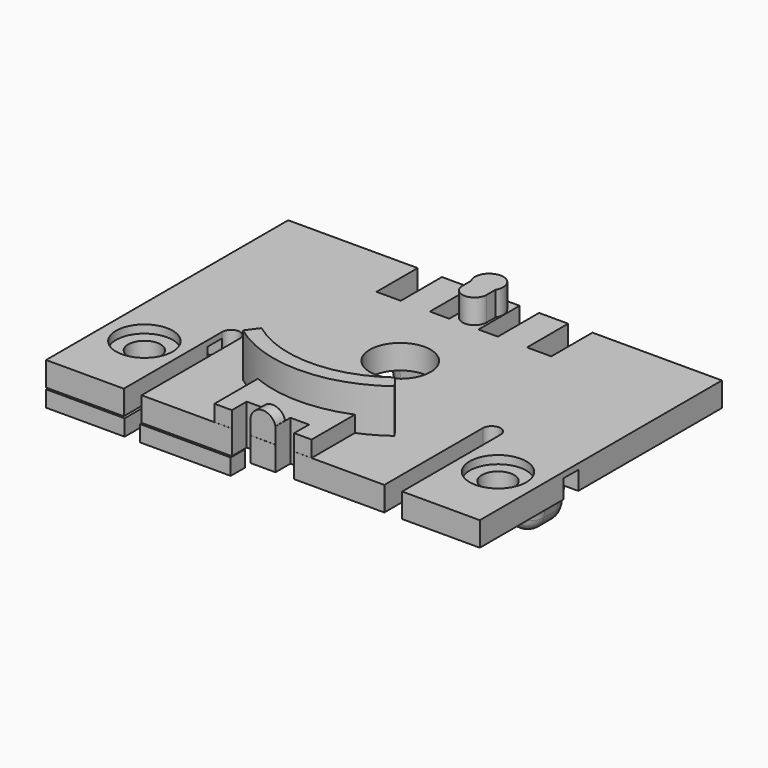
from build123d import *

# Parameters (mm, degrees)
SKETCH_W             = 53.6
SKETCH_H             = 37.4
PAD_DEPTH            = 3
SKETCH001_R          = 3.75
POCKET_DEPTH         = 3.001
SKETCH002_R          = 1.75
POCKET001_DEPTH      = 3.001
POCKET002_DEPTH      = 3.001
SKETCH009_R          = 2
POCKET004_DEPTH      = 3.001
SKETCH010_R          = 3.5
POCKET005_DEPTH      = 1
PAD003_DEPTH         = 5.4
PAD006_DEPTH         = 6
SKETCH016_R          = 1.75
PAD007_DEPTH         = 6
SKETCH018_W          = 3
SKETCH018_H          = 6.4
SKETCH018_W_2        = 2.4
POCKET008_DEPTH      = 8.401
SKETCH023_W          = 2.3
SKETCH023_H          = 2.3
POCKET009_DEPTH      = 10
SKETCH024_W          = 2.3
SKETCH024_H          = 2.3
POCKET010_DEPTH      = 10
SKETCH013_W          = 12
SKETCH013_H          = 7
PAD010_DEPTH         = 2
SKETCH014_R          = 1.57
PAD011_DEPTH         = 1.5
SKETCH007_W          = 2.3
SKETCH007_H          = 2.3
POCKET011_DEPTH      = 8.401
FILLET_R             = 2
SKETCH025_W          = 21
SKETCH025_H          = 6
PAD012_DEPTH         = 3
SKETCH026_W          = 4
SKETCH026_H          = 3
POCKET012_DEPTH      = 3.001
POCKET012_DEPTH_BACK = -3.001
PAD008_DEPTH         = 2
PAD009_DEPTH         = 2


with BuildPart() as body:
    # Sketch → Pad (new body)
    with BuildSketch(Plane.XY):
        with Locations((0, -2.51)):
            Rectangle(SKETCH_W, SKETCH_H)
    extrude(amount=PAD_DEPTH)

    # Sketch001 → Pocket (cut, through all)
    with BuildSketch(Plane.XY):
        Circle(SKETCH001_R)
    extrude(amount=POCKET_DEPTH, mode=Mode.SUBTRACT)

    # Sketch002 → Pocket001 (cut, through all)
    with BuildSketch(Plane.XY):
        with Locations((0, -7.31)):
            Circle(SKETCH002_R)
    extrude(amount=POCKET001_DEPTH, mode=Mode.SUBTRACT)

    # Sketch004 → Pocket002 (cut, through all)
    with BuildSketch(Plane.XY):
        with BuildLine():
            ThreePointArc((-15, -6), (-16.1, -4.9), (-17.2, -6))
            Line((-17.2, -6), (-17.2, -21))
            ThreePointArc((-17.2, -21), (-16.1, -22.1), (-15, -21))
            Line((-15, -21), (-15, -6))
        make_face()
        with BuildLine():
            ThreePointArc((17.2, -6), (16.1, -4.9), (15, -6))
            Line((15, -6), (15, -21))
            ThreePointArc((15, -21), (16.1, -22.1), (17.2, -21))
            Line((17.2, -21), (17.2, -6))
        make_face()
    extrude(amount=POCKET002_DEPTH, mode=Mode.SUBTRACT)

    # Sketch009 → Pocket004 (cut, through all)
    with BuildSketch(Plane.XY):
        with Locations((21.85, -12.21)):
            Circle(SKETCH009_R)
        with Locations((-21.85, -12.21)):
            Circle(SKETCH009_R)
    extrude(amount=POCKET004_DEPTH, mode=Mode.SUBTRACT)

    # Sketch010 (on Face5 of Pocket004) → Pocket005 (cut)
    with BuildSketch(Plane.XY.offset(3)):
        with Locations((-21.85, -12.21)):
            Circle(SKETCH010_R)
        with Locations((21.85, -12.21)):
            Circle(SKETCH010_R)
    extrude(amount=-POCKET005_DEPTH, mode=Mode.SUBTRACT)

    # Sketch012 (on Face5 of Pocket005) → Pad003 (join)
    with BuildSketch(Plane.XY.offset(3)):
        with BuildLine():
            ThreePointArc((-8.25, -11.124747), (0.012458, -13.849994), (8.27, -11.109887))
            Line((9.374657, -12.59388), (8.27, -11.109887))
            ThreePointArc((-9.351986, -12.610724), (0.014122, -15.699994), (9.374657, -12.59388))
            Line((-9.351986, -12.610724), (-8.25, -11.124747))
        make_face()
    extrude(amount=PAD003_DEPTH)

    # Sketch015 → Pad006 (join)
    with BuildSketch(Plane.XY):
        with BuildLine():
            ThreePointArc((1.5, 13.73), (0, 15.23), (-1.5, 13.73))
            Line((-1.5, 13.73), (-1.5, 11.48))
            ThreePointArc((-1.5, 11.48), (0, 9.98), (1.5, 11.48))
            Line((1.5, 11.48), (1.5, 13.73))
        make_face()
    extrude(amount=PAD006_DEPTH)

    # Sketch016 → Pad007 (join)
    with BuildSketch(Plane.XY):
        with Locations((0, 13.73)):
            Circle(SKETCH016_R)
    extrude(amount=PAD007_DEPTH)

    # Sketch018 → Pocket008 (cut, through all)
    with BuildSketch(Plane.XY):
        with Locations((-9.3, 13.03)):
            Rectangle(SKETCH018_W, SKETCH018_H)
        with Locations((-3, 13.03)):
            Rectangle(SKETCH018_W_2, SKETCH018_H)
        with Locations((9.3, 13.03)):
            Rectangle(SKETCH018_W, SKETCH018_H)
        with Locations((3, 13.03)):
            Rectangle(SKETCH018_W_2, SKETCH018_H)
    extrude(amount=POCKET008_DEPTH, mode=Mode.SUBTRACT)

    # Sketch023 → Pocket009 (cut)
    with BuildSketch(Plane.YZ.offset(-26.8)):
        with Locations((-7.15, 1.15)):
            Rectangle(SKETCH023_W, SKETCH023_H)
    extrude(amount=POCKET009_DEPTH, mode=Mode.SUBTRACT)

    # Sketch024 → Pocket010 (cut)
    with BuildSketch(Plane.YZ.offset(26.8)):
        with Locations((-7.15, 1.15)):
            Rectangle(SKETCH024_W, SKETCH024_H)
    extrude(amount=-POCKET010_DEPTH, mode=Mode.SUBTRACT)

    # Sketch013 → Pad010 (join)
    with BuildSketch(Plane.XY.offset(3)):
        with Locations((0, -17.7)):
            Rectangle(SKETCH013_W, SKETCH013_H)
    extrude(amount=PAD010_DEPTH)

    # Sketch014 → Pad011 (join)
    with BuildSketch(Plane.XZ.offset(21.2)):
        with Locations((0, 4.66)):
            Circle(SKETCH014_R)
    extrude(amount=-PAD011_DEPTH)

    # Sketch007 → Pocket011 (cut, through all)
    with BuildSketch(Plane.XY):
        with Locations((-2.7, -20.06)):
            Rectangle(SKETCH007_W, SKETCH007_H)
        with Locations((2.7, -20.06)):
            Rectangle(SKETCH007_W, SKETCH007_H)
    extrude(amount=POCKET011_DEPTH, mode=Mode.SUBTRACT)


with BuildPart() as presser:
    # Sketch020 → AdditiveLoft section 0
    with BuildSketch(Plane.XY.offset(-18)):
        with BuildLine():
            Line((-5.75, 3), (5.75, 3))
            ThreePointArc((7.75, 1), (7.164214, 2.414214), (5.75, 3))
            Line((7.75, 1), (7.75, -1))
            ThreePointArc((5.75, -3), (7.164214, -2.414214), (7.75, -1))
            Line((5.75, -3), (-5.75, -3))
            ThreePointArc((-7.75, -1), (-7.164214, -2.414214), (-5.75, -3))
            Line((-7.75, -1), (-7.75, 1))
            ThreePointArc((-5.75, 3), (-7.164214, 2.414214), (-7.75, 1))
        make_face()
    # Sketch019 → AdditiveLoft section 1
    with BuildSketch(Plane.XY.offset(-3)):
        with BuildLine():
            Line((-8.5, 3), (8.5, 3))
            ThreePointArc((10.5, 1), (9.914214, 2.414214), (8.5, 3))
            Line((10.5, 1), (10.5, -1))
            ThreePointArc((8.5, -3), (9.914214, -2.414214), (10.5, -1))
            Line((8.5, -3), (-8.5, -3))
            ThreePointArc((-10.5, -1), (-9.914214, -2.414214), (-8.5, -3))
            Line((-10.5, -1), (-10.5, 1))
            ThreePointArc((-8.5, 3), (-9.914214, 2.414214), (-10.5, 1))
        make_face()
    loft()

    # Fillet
    fillet_edges = [presser.edges().sort_by_distance(p)[0] for p in [
        (0, 3, -18),
        (-7.164214, 2.414214, -18),
        (-7.75, 0, -18),
        (-7.164214, -2.414214, -18),
        (0, -3, -18),
        (7.164214, -2.414214, -18),
        (7.75, 0, -18),
        (7.164214, 2.414214, -18),
    ]]
    fillet(fillet_edges, radius=FILLET_R)

    # Sketch025 → Pad012 (new body)
    with BuildSketch(Plane.XY):
        Rectangle(SKETCH025_W, SKETCH025_H)
    extrude(amount=-PAD012_DEPTH)

    # Sketch026 → Pocket012 (cut, two sides)
    with BuildSketch(Plane.XZ) as pocket012_sk:
        with Locations((0, -1.5)):
            Rectangle(SKETCH026_W, SKETCH026_H)
        with Locations((6, -1.5)):
            Rectangle(SKETCH026_W, SKETCH026_H)
        with Locations((-6, -1.5)):
            Rectangle(SKETCH026_W, SKETCH026_H)
    extrude(amount=-POCKET012_DEPTH, mode=Mode.SUBTRACT)
    extrude(pocket012_sk.sketch, amount=-POCKET012_DEPTH_BACK, mode=Mode.SUBTRACT)


with BuildPart() as presser_1:
    # Body001 placement: moved
    add(presser.part.moved(Location((0, 13.1, 0))))


with BuildPart() as l_shape:
    # Sketch021 → Pad008 (new body)
    with BuildSketch(Plane.XY):
        Polygon((0, 0), (0, 12.4), (2.2, 12.4), (2.2, 2.2), (11.21, 2.2), (11.21, 0), align=None)
    extrude(amount=PAD008_DEPTH)


with BuildPart() as l_shape_1:
    # Body002 placement: moved
    add(l_shape.part.moved(Location((-15.2, -21.2, -2.2))))


with BuildPart() as u_shape:
    # Sketch022 → Pad009 (new body)
    with BuildSketch(Plane.XY):
        Polygon((0, 0), (0, 12.4), (2.2, 12.4), (2.2, 2.2), (7.5, 2.2), (7.5, 12.4), (9.7, 12.4), (9.7, 0), align=None)
    extrude(amount=PAD009_DEPTH)


with BuildPart() as u_shape_1:
    # Body003 placement: moved
    add(u_shape.part.moved(Location((-26.8, -21.2, -2.2))))


solid = Compound([body.part, presser_1.part, l_shape_1.part, u_shape_1.part])
